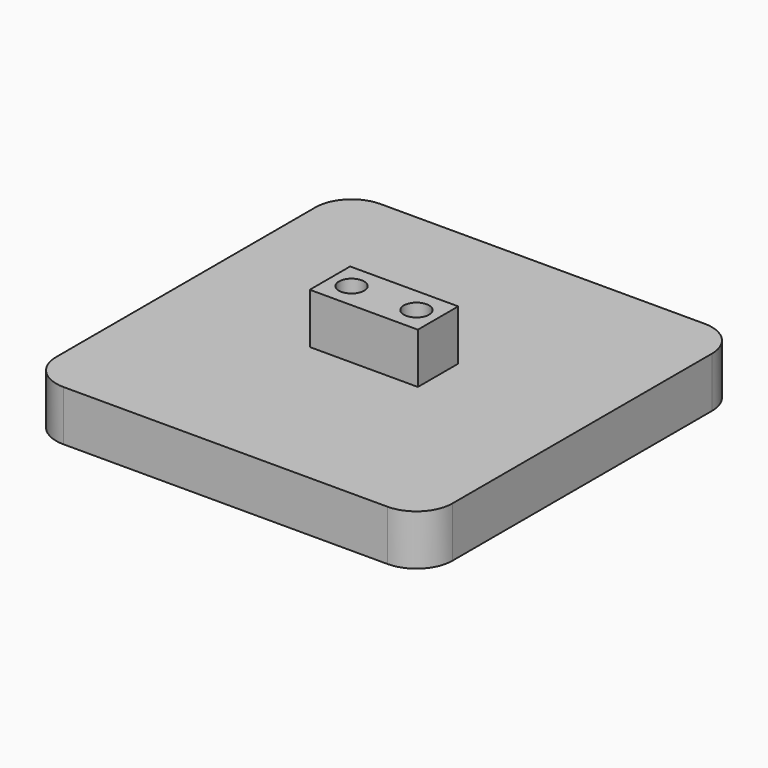
from build123d import *

# Parameters (mm, degrees)
F1_DEPTH = 7
F2_W     = 15
F2_H     = 7
F2_R     = 1.75
F3_DEPTH = 7
F4_R     = 2.5
F5_DEPTH = 10


with BuildPart() as f1:
    # F0 (on Top) → F1 (new body)
    with BuildSketch(Plane.XY):
        with BuildLine():
            ThreePointArc((27.5, 22.5), (26.035534, 26.035534), (22.5, 27.5))
            Line((22.5, 27.5), (-22.5, 27.5))
            ThreePointArc((-22.5, 27.5), (-26.035534, 26.035534), (-27.5, 22.5))
            Line((-27.5, 22.5), (-27.5, -22.5))
            ThreePointArc((-27.5, -22.5), (-26.035534, -26.035534), (-22.5, -27.5))
            Line((-22.5, -27.5), (22.5, -27.5))
            ThreePointArc((22.5, -27.5), (26.035534, -26.035534), (27.5, -22.5))
            Line((27.5, -22.5), (27.5, 22.5))
        make_face()
    extrude(amount=F1_DEPTH)

    # F2 (on face) → F3 (join)
    with BuildSketch(Plane.XY.offset(7)):
        Rectangle(F2_W, F2_H)
        with Locations((-4.5, 0)):
            Circle(F2_R, mode=Mode.SUBTRACT)
        with BuildLine():
            ThreePointArc((6.25, 0), (4.5, -1.75), (2.75, 0))
            ThreePointArc((2.75, 0), (4.5, 1.75), (6.25, 0))
        make_face(mode=Mode.SUBTRACT)
    extrude(amount=F3_DEPTH)

    # F4 (on face) → F5 (cut)
    with BuildSketch(Plane(origin=(0, 0, 0), x_dir=(1, 0, 0), z_dir=(0, 0, -1))):
        with Locations((-4.5, 0)):
            Circle(F4_R)
        with BuildLine():
            ThreePointArc((7, 0), (4.5, 2.5), (2, 0))
            ThreePointArc((2, 0), (4.5, -2.5), (7, 0))
        make_face()
    extrude(amount=-F5_DEPTH, mode=Mode.SUBTRACT)


solid = f1.part
